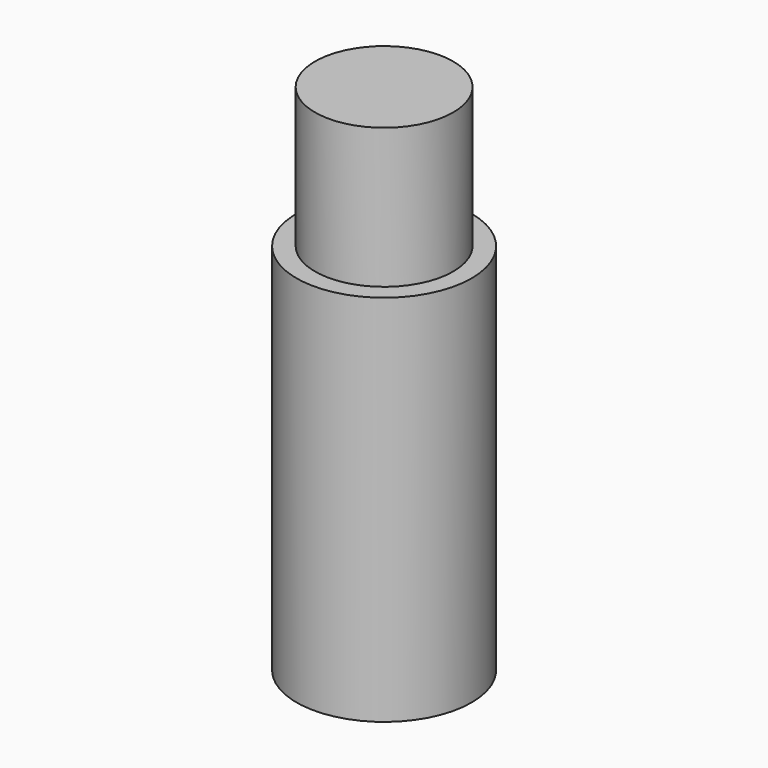
from build123d import *

# Parameters (mm, degrees)
F0_R     = 11.90625
F1_DEPTH = 25.4
F2_R     = 9.398
F3_DEPTH = 19.05


with BuildPart() as f1:
    # F0 (on Top) → F1 (new body, symmetric)
    with BuildSketch(Plane.XY):
        Circle(F0_R)
    extrude(amount=F1_DEPTH, both=True)

    # F2 (on face) → F3 (join)
    with BuildSketch(Plane.XY.offset(25.4)):
        Circle(F2_R)
    extrude(amount=F3_DEPTH)


solid = f1.part
